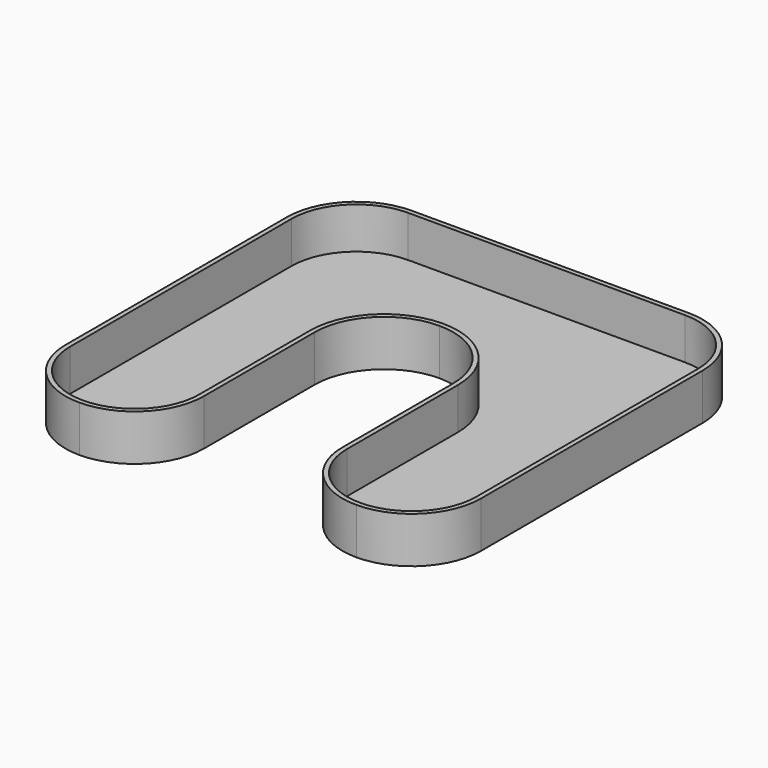
from build123d import *

# Parameters (mm, degrees)
F1_DEPTH = 10
F2_T     = -1


with BuildPart() as f1:
    # F0 (on Top) → F1 (new body)
    with BuildSketch(Plane.XY):
        with BuildLine():
            Line((-51.212831, 31.718117), (-51.212831, -28.281883))
            ThreePointArc((-51.212831, -28.281883), (-46.819433, -38.888485), (-36.212831, -43.281883))
            ThreePointArc((-36.212831, -43.281883), (-25.606229, -38.888485), (-21.212831, -28.281883))
            Line((-21.212831, -28.281883), (-21.212831, 1.718117))
            ThreePointArc((-21.212831, 1.718117), (-16.819433, 12.324719), (-6.212831, 16.718117))
            ThreePointArc((-6.212831, 16.718117), (4.393771, 12.324719), (8.787169, 1.718117))
            Line((8.787169, 1.718117), (8.787169, -28.281883))
            ThreePointArc((8.787169, -28.281883), (13.180567, -38.888485), (23.787169, -43.281883))
            ThreePointArc((23.787169, -43.281883), (34.393771, -38.888485), (38.787169, -28.281883))
            Line((38.787169, -28.281883), (38.787169, 31.718117))
            ThreePointArc((38.787169, 31.718117), (34.393771, 42.324719), (23.787169, 46.718117))
            Line((23.787169, 46.718117), (-36.212831, 46.718117))
            ThreePointArc((-36.212831, 46.718117), (-46.819433, 42.324719), (-51.212831, 31.718117))
        make_face()
    extrude(amount=F1_DEPTH)

    # F2
    f2_openings = [f1.faces().sort_by_distance(p)[0] for p in [
        (-36.212831, -42.009091, 10),
    ]]
    offset(amount=F2_T, openings=f2_openings)


solid = f1.part
